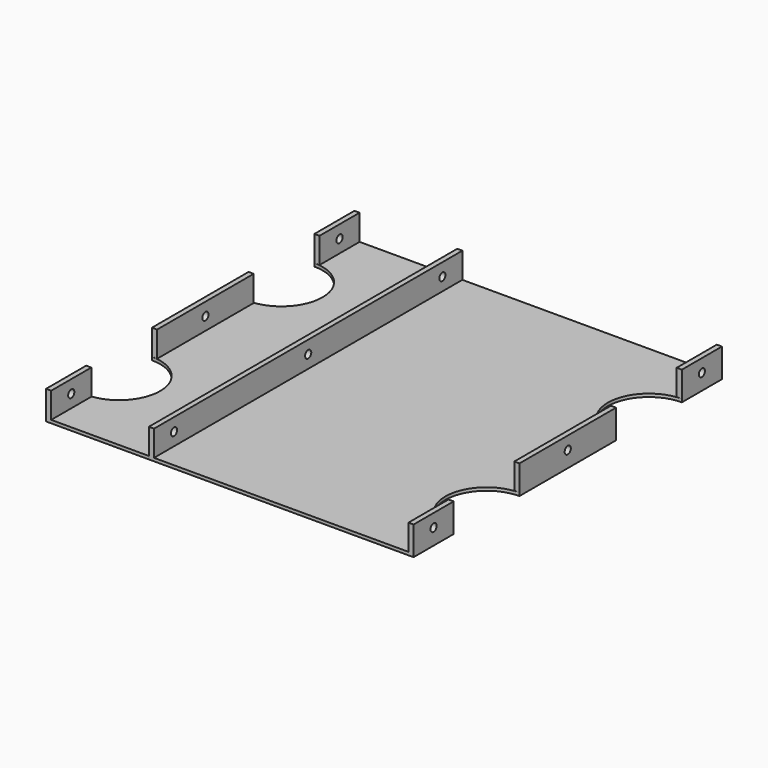
from build123d import *

# Parameters (mm, degrees)
PAD_DEPTH       = 1.2
SKETCH001_W     = 2
SKETCH001_H     = 150
SKETCH001_H_2   = 19.5
SKETCH001_H_3   = 47
PAD001_DEPTH    = 10
SKETCH002_R     = 1.5
POCKET_DEPTH    = 103.001
PAD002_DEPTH    = 1.2
SKETCH004_W     = 2
SKETCH004_H     = 19.5
SKETCH004_H_2   = 47
PAD003_DEPTH    = 10
SKETCH005_R     = 1.5
POCKET001_DEPTH = 40.001


with BuildPart() as left:
    # Sketch → Pad (new body)
    with BuildSketch(Plane.XY):
        with BuildLine():
            Line((0, 0), (0, 150))
            Line((0, 150), (103, 150))
            Line((103, 150), (103, 130.5))
            ThreePointArc((103, 130.5), (87, 114.5), (103, 98.5))
            Line((103, 98.5), (103, 51.5))
            ThreePointArc((103, 51.5), (87, 35.5), (103, 19.5))
            Line((103, 0), (103, 19.5))
            Line((0, 0), (103, 0))
        make_face()
    extrude(amount=PAD_DEPTH)

    # Sketch001 (on Face10 of Pad) → Pad001 (join)
    with BuildSketch(Plane.XY.offset(1.2)):
        with Locations((1, 75)):
            Rectangle(SKETCH001_W, SKETCH001_H)
        with Locations((102, 140.25)):
            Rectangle(SKETCH001_W, SKETCH001_H_2)
        with Locations((102, 75)):
            Rectangle(SKETCH001_W, SKETCH001_H_3)
        with Locations((102, 9.75)):
            Rectangle(SKETCH001_W, SKETCH001_H_2)
    extrude(amount=PAD001_DEPTH)

    # Sketch002 (on Face5 of Pad001) → Pocket (cut, through all)
    with BuildSketch(Plane(origin=(0, 0, 0), x_dir=(0, -1, 0), z_dir=(-1, 0, 0))):
        with Locations((-75, 6.2)):
            Circle(SKETCH002_R)
        with Locations((-140.25, 6.2)):
            Circle(SKETCH002_R)
        with Locations((-9.75, 6.2)):
            Circle(SKETCH002_R)
    extrude(amount=-POCKET_DEPTH, mode=Mode.SUBTRACT)


with BuildPart() as right:
    # Sketch003 → Pad002 (new body)
    with BuildSketch(Plane.XY):
        with BuildLine():
            Line((0, 0), (-40, 0))
            Line((-40, 19.5), (-40, 0))
            ThreePointArc((-40, 19.5), (-24, 35.5), (-40, 51.5))
            Line((-40, 98.5), (-40, 51.5))
            ThreePointArc((-40, 98.5), (-24, 114.5), (-40, 130.5))
            Line((-40, 130.5), (-40, 150))
            Line((-40, 150), (0, 150))
            Line((0, 150), (0, 0))
        make_face()
    extrude(amount=PAD002_DEPTH)

    # Sketch004 (on Face10 of Pad002) → Pad003 (join)
    with BuildSketch(Plane.XY.offset(1.2)):
        with Locations((-39, 140.25)):
            Rectangle(SKETCH004_W, SKETCH004_H)
        with Locations((-39, 75)):
            Rectangle(SKETCH004_W, SKETCH004_H_2)
        with Locations((-39, 9.75)):
            Rectangle(SKETCH004_W, SKETCH004_H)
    extrude(amount=PAD003_DEPTH)

    # Sketch005 (on Face7 of Pad003) → Pocket001 (cut, through all)
    with BuildSketch(Plane(origin=(-40, 0, 0), x_dir=(0, -1, 0), z_dir=(-1, 0, 0))):
        with Locations((-140.25, 6.2)):
            Circle(SKETCH005_R)
        with Locations((-75, 6.2)):
            Circle(SKETCH005_R)
        with Locations((-9.75, 6.2)):
            Circle(SKETCH005_R)
    extrude(amount=-POCKET001_DEPTH, mode=Mode.SUBTRACT)


solid = Compound([left.part, right.part])
